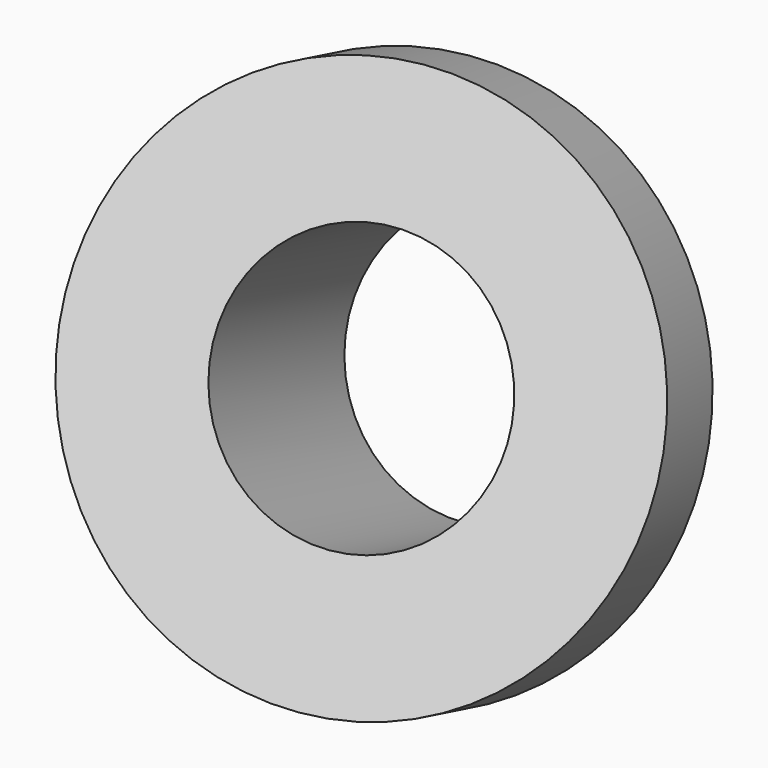
from build123d import *

# Parameters (mm, degrees)
CYLINDER026_R          = 1.5
CYLINDER026_DEPTH      = 3
CYLINDER025_R          = 2
CYLINDER025_DEPTH      = 3
CYLINDER024_R          = 3
CYLINDER024_DEPTH      = 1
CUT033_ROLL_ANGLE      = 111.214464
CUT033_PITCH_ANGLE     = 15.699901
CUT033_PLACEMENT_ANGLE = -161.024378


with BuildPart() as cylinder030:
    # Cylinder026 → Cylinder026 (new body)
    with BuildSketch(Plane.XY):
        Circle(CYLINDER026_R)
    extrude(amount=CYLINDER026_DEPTH)


with BuildPart() as cylinder029:
    # Cylinder025 → Cylinder025 (new body)
    with BuildSketch(Plane.XY):
        Circle(CYLINDER025_R)
    extrude(amount=CYLINDER025_DEPTH)


with BuildPart() as obj1:
    # Cylinder024 → Cylinder024 (new body)
    with BuildSketch(Plane.XY):
        Circle(CYLINDER024_R)
    extrude(amount=CYLINDER024_DEPTH)

    # Fusion026: union Cylinder029
    add(cylinder029.part)

    # Cut033: cut Cylinder030
    add(cylinder030.part, mode=Mode.SUBTRACT)


with BuildPart() as obj1_1:
    # Cut033 roll: moved
    add(obj1.part.rotate(Axis((0, 0, 0), (1, 0, 0)), CUT033_ROLL_ANGLE))


with BuildPart() as obj1_2:
    # Cut033 pitch: moved
    add(obj1_1.part.rotate(Axis((0, 0, 0), (0, 1, 0)), CUT033_PITCH_ANGLE))


with BuildPart() as obj1_3:
    # Cut033 placement: moved
    add(obj1_2.part.moved(Location((3e-06, -2e-06, -2.999996))).rotate(Axis((3e-06, -2e-06, -2.999996), (0, 0, 1)), CUT033_PLACEMENT_ANGLE))


solid = obj1_3.part
